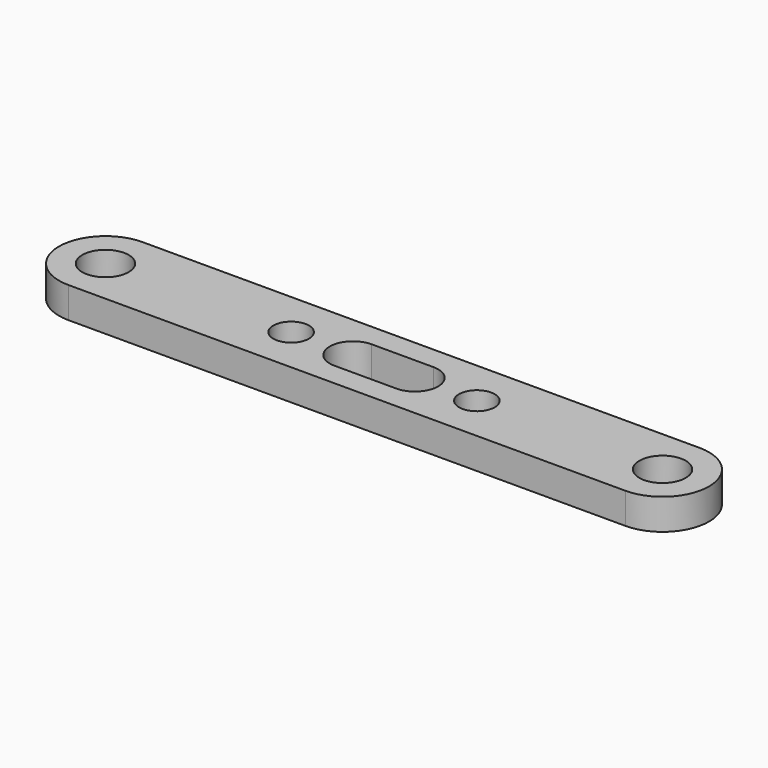
from build123d import *

# Parameters (mm, degrees)
F0_R     = 2.38125
F0_R_2   = 1.8288
F1_DEPTH = 3.175


with BuildPart() as f1:
    # F0 (on Top) → F1 (new body)
    with BuildSketch(Plane.XY):
        with BuildLine():
            ThreePointArc((28.575, -4.7625), (33.3375, 0), (28.575, 4.7625))
            Line((28.575, 4.7625), (-28.575, 4.7625))
            ThreePointArc((-28.575, 4.7625), (-33.3375, 0), (-28.575, -4.7625))
            Line((-28.575, -4.7625), (28.575, -4.7625))
        make_face()
        with Locations((-28.575, 0)):
            Circle(F0_R, mode=Mode.SUBTRACT)
        with Locations((-9.525, 0)):
            Circle(F0_R_2, mode=Mode.SUBTRACT)
        with BuildLine():
            ThreePointArc((3.175, 2.38125), (5.55625, 0), (3.175, -2.38125))
            Line((3.175, -2.38125), (-3.175, -2.38125))
            ThreePointArc((-3.175, -2.38125), (-5.55625, 0), (-3.175, 2.38125))
            Line((-3.175, 2.38125), (3.175, 2.38125))
        make_face(mode=Mode.SUBTRACT)
        with Locations((9.525, 0)):
            Circle(F0_R_2, mode=Mode.SUBTRACT)
        with Locations((28.575, 0)):
            Circle(F0_R, mode=Mode.SUBTRACT)
    extrude(amount=F1_DEPTH)


solid = f1.part
